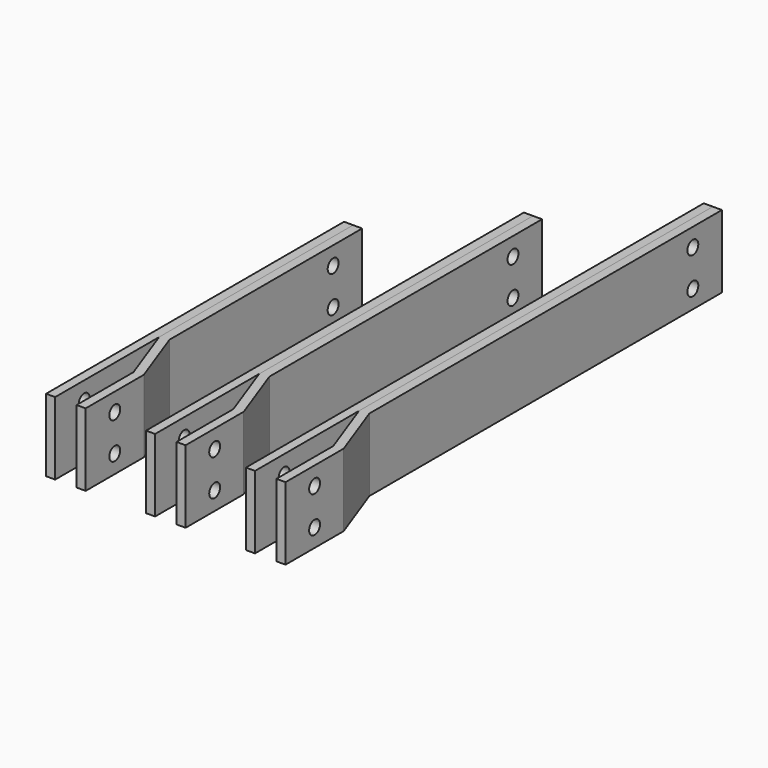
from build123d import *

# Parameters (mm, degrees)
F0_W      = 6.35
F0_H      = 260.35
F0_H_2    = 330.2
F0_H_3    = 400.05
F1_DEPTH  = 25.4
F3_DEPTH  = 25.4
F4_R      = 4.7625
F5_DEPTH  = 167.387
F6_R      = 4.7625
F7_DEPTH  = 12.7
F8_R      = 4.7625
F9_DEPTH  = 12.7
F10_R     = 4.7625
F11_DEPTH = 12.7


with BuildPart() as f1:
    # F0 (on Top) → F1 (new body, symmetric)
    with BuildSketch(Plane.XY):
        with Locations((3.175, 130.175)):
            Rectangle(F0_W, F0_H)
        with Locations((73.025, 165.1)):
            Rectangle(F0_W, F0_H_2)
        with Locations((142.875, 200.025)):
            Rectangle(F0_W, F0_H_3)
    extrude(amount=F1_DEPTH, both=True)


with BuildPart() as f3:
    # F2 (on Top) → F3 (new body, symmetric)
    with BuildSketch(Plane.XY):
        Polygon((21.336, 49.680324), (21.336, 0), (27.686, 0), (27.686, 50.8), (12.7, 91.973697), (12.7, 260.35), (6.35, 260.35), (6.35, 90.85402), align=None)
        Polygon((91.186, 49.680324), (91.186, 0), (97.536, 0), (97.536, 50.8), (82.55, 91.973697), (82.55, 330.2), (76.2, 330.2), (76.2, 90.85402), align=None)
        Polygon((161.036, 49.680324), (161.036, 0), (167.386, 0), (167.386, 50.8), (152.4, 91.973697), (152.4, 400.05), (146.05, 400.05), (146.05, 90.85402), align=None)
    extrude(amount=F3_DEPTH, both=True)


with BuildPart() as f5_tool:
    # F4 (on face) → F5 (new body, through all)
    with BuildSketch(Plane(origin=(0, 0, 0), x_dir=(0, -1, 0), z_dir=(-1, 0, 0))):
        with Locations((-25.4, 12.7)):
            Circle(F4_R)
        with Locations((-25.4, -12.7)):
            Circle(F4_R)
    extrude(amount=-F5_DEPTH)


with BuildPart() as f1_1:
    add(f1.part)

    # F5: cut by f5_tool
    add(f5_tool.part, mode=Mode.SUBTRACT)


with BuildPart() as f3_1:
    add(f3.part)

    # F5: cut by f5_tool
    add(f5_tool.part, mode=Mode.SUBTRACT)


with BuildPart() as f7_tool:
    # F6 (on face) → F7 (new body, through all)
    with BuildSketch(Plane(origin=(0, 0, 0), x_dir=(0, -1, 0), z_dir=(-1, 0, 0))):
        with Locations((-234.95, 12.7)):
            Circle(F6_R)
        with Locations((-234.95, -12.7)):
            Circle(F6_R)
    extrude(amount=-F7_DEPTH)


with BuildPart() as f1_2:
    add(f1_1.part)

    # F7: cut by f7_tool
    add(f7_tool.part, mode=Mode.SUBTRACT)


with BuildPart() as f3_2:
    add(f3_1.part)

    # F7: cut by f7_tool
    add(f7_tool.part, mode=Mode.SUBTRACT)


with BuildPart() as f9_tool:
    # F8 (on face) → F9 (new body, through all)
    with BuildSketch(Plane(origin=(69.85, 0, 0), x_dir=(0, -1, 0), z_dir=(-1, 0, 0))):
        with Locations((-304.8, 12.7)):
            Circle(F8_R)
        with Locations((-304.8, -12.7)):
            Circle(F8_R)
    extrude(amount=-F9_DEPTH)


with BuildPart() as f1_3:
    add(f1_2.part)

    # F9: cut by f9_tool
    add(f9_tool.part, mode=Mode.SUBTRACT)


with BuildPart() as f3_3:
    add(f3_2.part)

    # F9: cut by f9_tool
    add(f9_tool.part, mode=Mode.SUBTRACT)


with BuildPart() as f11_tool:
    # F10 (on face) → F11 (new body, through all)
    with BuildSketch(Plane(origin=(139.7, 0, 0), x_dir=(0, -1, 0), z_dir=(-1, 0, 0))):
        with Locations((-374.65, 12.7)):
            Circle(F10_R)
        with Locations((-374.65, -12.7)):
            Circle(F10_R)
    extrude(amount=-F11_DEPTH)


with BuildPart() as f1_4:
    add(f1_3.part)

    # F11: cut by f11_tool
    add(f11_tool.part, mode=Mode.SUBTRACT)


with BuildPart() as f3_4:
    add(f3_3.part)

    # F11: cut by f11_tool
    add(f11_tool.part, mode=Mode.SUBTRACT)


solid = Compound([f1_4.part, f3_4.part])
